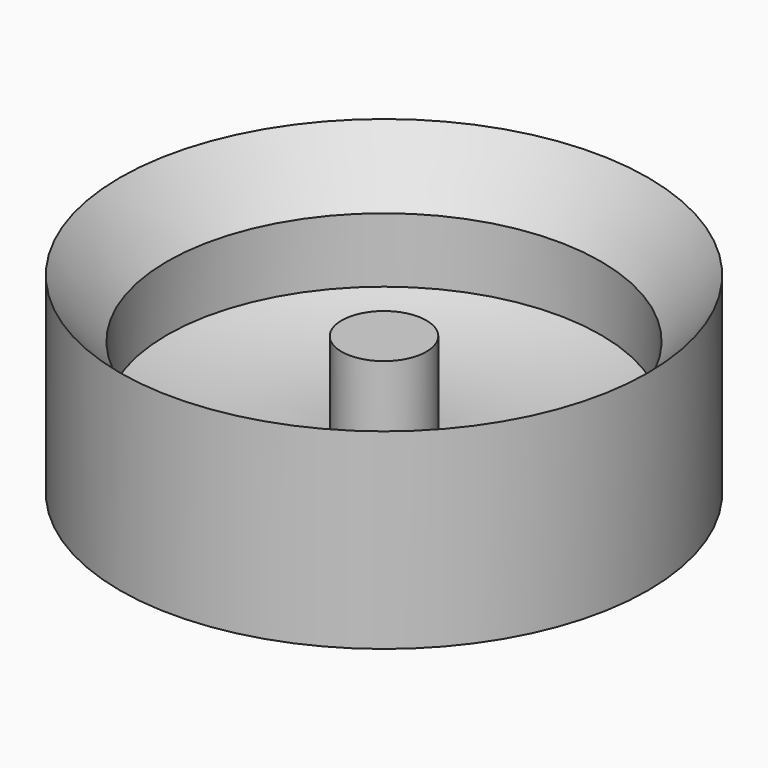
from build123d import *


with BuildPart() as f1:
    # F0 (on Front) → F1 (revolve)
    with BuildSketch(Plane.XZ):
        with BuildLine():
            Line((-48.207466, 12.51955), (-48.207466, 0))
            Line((-48.207466, 0), (0, 0))
            Line((0, 0), (0, 9.353687))
            Line((0, 9.353687), (0, 25.185656))
            Line((0, 25.185656), (-7.73931, 25.185656))
            Line((-7.73931, 25.185656), (-7.73931, 8.055973))
            ThreePointArc((-7.73931, 8.055973), (-23.932162, 8.32034), (-39.573293, 12.51955))
            Line((-39.573293, 12.51955), (-39.573293, 24.319587))
            Line((-39.573293, 24.319587), (-48.207466, 34.968402))
            Line((-48.207466, 34.968402), (-48.207466, 24.319587))
            Line((-48.207466, 24.319587), (-48.207466, 12.51955))
        make_face()
    revolve(axis=Axis((0, 0, 17.269671), (0, 0, -1)))


solid = f1.part
